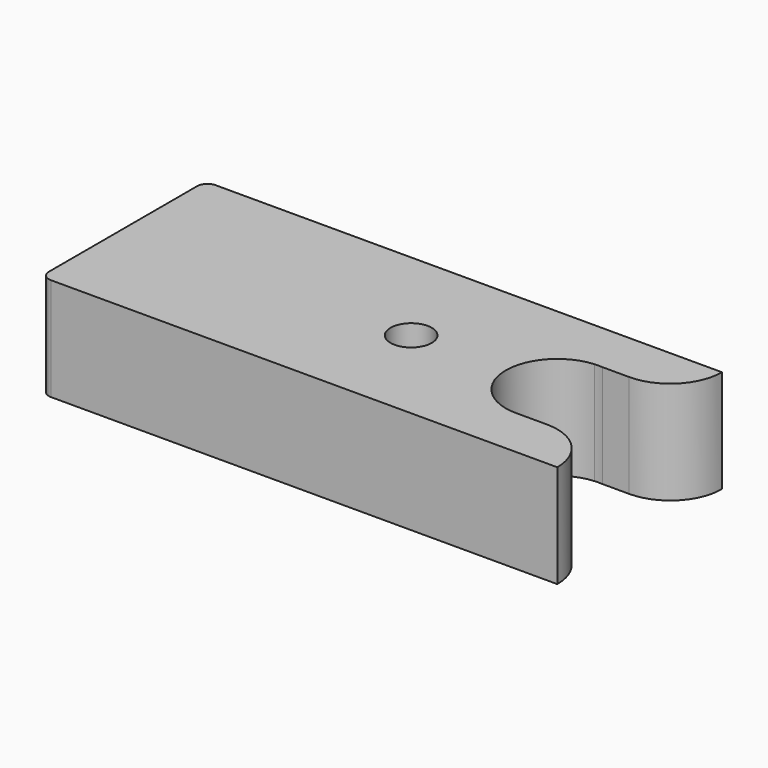
from build123d import *

# Parameters (mm, degrees)
F0_R     = 1
F1_DEPTH = 5


with BuildPart() as f1:
    # F0 (on Top) → F1 (new body)
    with BuildSketch(Plane.XY):
        with BuildLine():
            Line((25.1, 0), (0.5, 0))
            ThreePointArc((0.5, 0), (0.146447, -0.146447), (0, -0.5))
            Line((0, -0.5), (0, -9.5))
            ThreePointArc((0, -9.5), (0.146447, -9.853553), (0.5, -10))
            Line((0.5, -10), (25.1, -10))
            Line((25.1, -10), (25.1, -9.999452))
            ThreePointArc((25.1, -9.999452), (24.367767, -8.231685), (22.6, -7.499452))
            Line((22.6, -7.499452), (21.152357, -7.499452))
            ThreePointArc((21.152357, -7.499452), (18.603039, -5.123229), (20.905998, -2.507539))
            ThreePointArc((20.905998, -2.507539), (21.1, -2.5), (21.294002, -2.507539))
            Line((21.294002, -2.507539), (22.6, -2.507539))
            ThreePointArc((22.6, -2.507539), (24.367767, -1.775306), (25.1, -0.007539))
            Line((25.1, -0.007539), (25.1, 0))
        make_face()
        with Locations((14, -5)):
            Circle(F0_R, mode=Mode.SUBTRACT)
    extrude(amount=F1_DEPTH)


solid = f1.part
